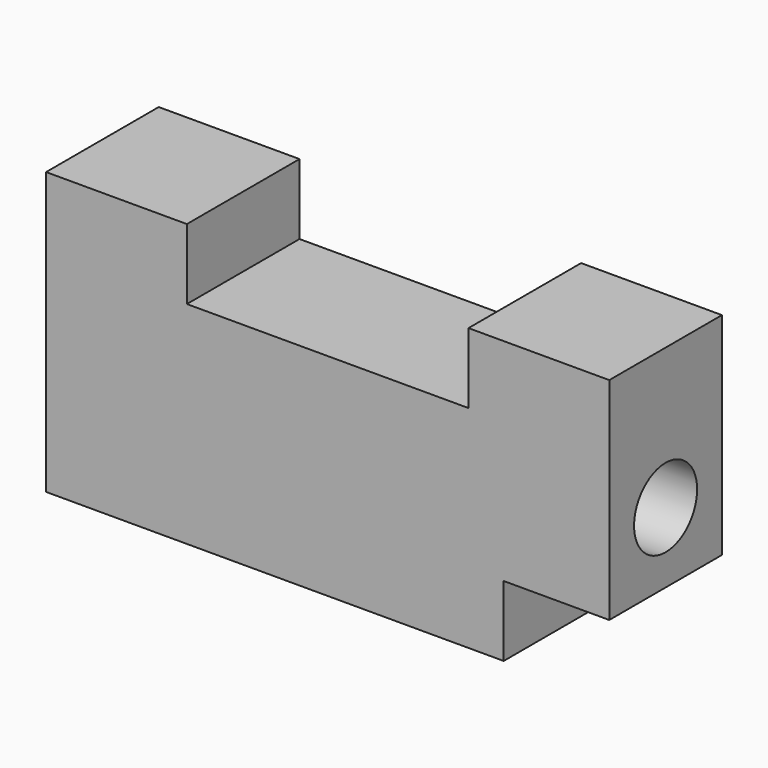
from build123d import *

# Parameters (mm, degrees)
F0_W     = 101.6
F0_H     = 50.8
F1_DEPTH = 25.4
F2_W     = 50.8
F2_H     = 12.7
F3_DEPTH = 25.401
F4_W     = 25.4
F4_H     = 12.7
F5_DEPTH = 19.05
F6_R     = 7.110031
F7_DEPTH = 101.601


with BuildPart() as f1:
    # F0 (on Front) → F1 (new body)
    with BuildSketch(Plane.XZ):
        Rectangle(F0_W, F0_H)
    extrude(amount=F1_DEPTH)

    # F2 (on face) → F3 (cut, through all)
    with BuildSketch(Plane.XZ.offset(25.4)):
        with Locations((0, 19.05)):
            Rectangle(F2_W, F2_H)
    extrude(amount=-F3_DEPTH, mode=Mode.SUBTRACT)

    # F4 (on face) → F5 (cut)
    with BuildSketch(Plane.YZ.offset(50.8)):
        with Locations((-12.7, -19.05)):
            Rectangle(F4_W, F4_H)
    extrude(amount=-F5_DEPTH, mode=Mode.SUBTRACT)

    # F6 (on face) → F7 (cut, through all)
    with BuildSketch(Plane.YZ.offset(50.8)):
        with Locations((-12.7, 0)):
            Circle(F6_R)
    extrude(amount=-F7_DEPTH, mode=Mode.SUBTRACT)


solid = f1.part
